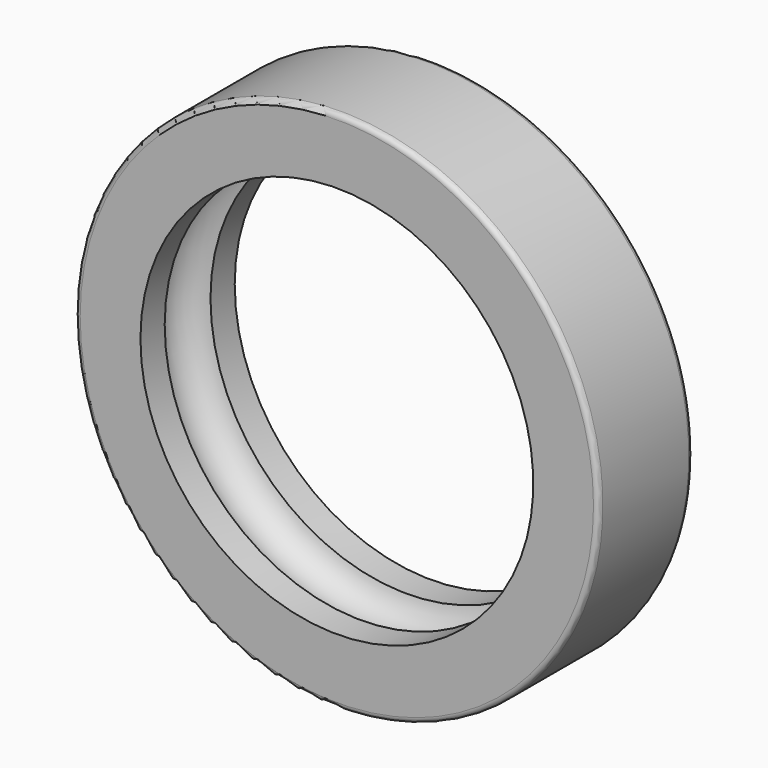
from build123d import *

# Parameters (mm, degrees)
F2_R = 0.4


with BuildPart() as f1:
    # F0 (on Top) → F1 (revolve)
    with BuildSketch(Plane.XY):
        with BuildLine():
            Line((4.8672996052, 18.9265990148), (4.8672996052, 9.9265990148))
            Line((4.8672996052, 9.9265990148), (9.3672996052, 9.9265990148))
            Line((9.3672996052, 9.9265990148), (9.8672996052, 9.9265990148))
            Line((9.8672996052, 9.9265990148), (9.8672996052, 12.2409004436))
            ThreePointArc((9.8672996052, 12.2409004436), (8.1513611708, 14.4265990148), (9.8672996052, 16.612297586))
            Line((9.8672996052, 16.612297586), (9.8672996052, 18.9265990148))
            Line((9.8672996052, 18.9265990148), (4.8672996052, 18.9265990148))
        make_face()
    revolve(axis=Axis((24.8672996052, 14.4265990148, 0), (0, -1, 0)))

    # F2
    f2_edges = [f1.edges().sort_by_distance(p)[0] for p in [
        (44.8673, 18.926599, 0),
        (44.8673, 9.926599, 0),
    ]]
    fillet(f2_edges, radius=F2_R)


solid = f1.part
